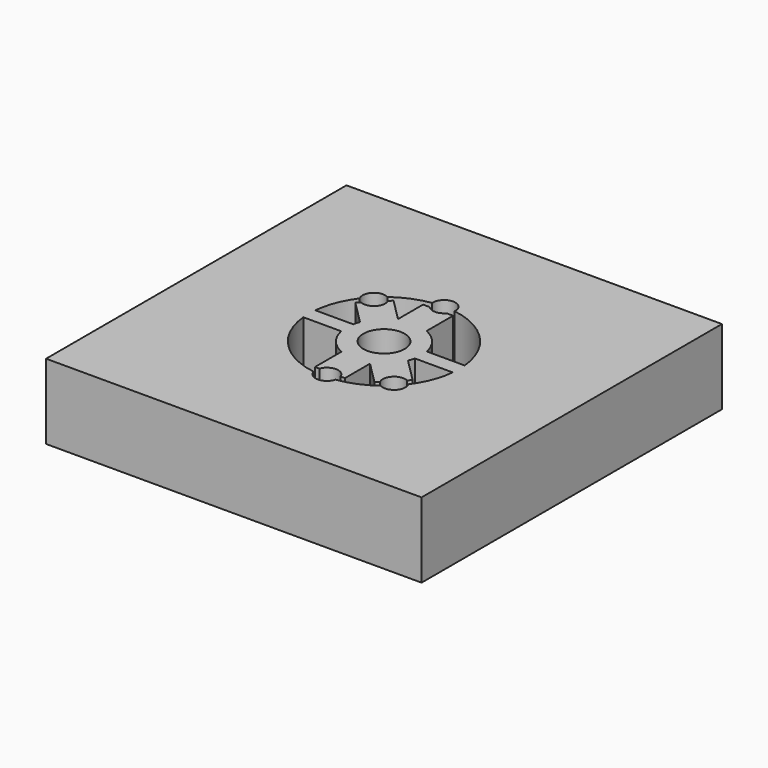
from build123d import *

# Parameters (mm, degrees)
F0_W     = 50
F0_H     = 50
F1_DEPTH = 10
F3_DEPTH = 10
F5_DEPTH = 10
F7_D     = 5.5
F8_D     = 3


with BuildPart() as f1:
    # F0 (on Top) → F1 (new body)
    with BuildSketch(Plane.XY):
        Rectangle(F0_W, F0_H)
    extrude(amount=F1_DEPTH)

    # F2 (on Top) → F3 (cut, through all)
    with BuildSketch(Plane.XY):
        with BuildLine():
            Line((-4.8989794856, -1), (-9.9498743711, -1))
            ThreePointArc((-9.9498743711, -1), (0, -10), (9.9498743711, -1))
            Line((9.9498743711, -1), (4.8989794856, -1))
            ThreePointArc((4.8989794856, -1), (0, -5), (-4.8989794856, -1))
        make_face()
        with BuildLine():
            ThreePointArc((9.9498743711, 1), (0, 10), (-9.9498743711, 1))
            Line((-9.9498743711, 1), (-4.8989794856, 1))
            ThreePointArc((-4.8989794856, 1), (0, 5), (4.8989794856, 1))
            Line((4.8989794856, 1), (9.9498743711, 1))
        make_face()
    extrude(amount=F3_DEPTH, mode=Mode.SUBTRACT)

    # F4 (on Top) → F5 (join)
    with BuildSketch(Plane.XY):
        Polygon((2, 9), (-2, 9), (-2, 4.8284271247), (2, 0.8284271247), align=None)
        Polygon((2, 0.8284271247), (-2, 4.8284271247), (-2, -0.8284271247), (2, -4.8284271247), align=None)
        Polygon((-2, -0.8284271247), (-2, 4.8284271247), (-4.9497474683, 7.7781745931), (-7.7781745931, 4.9497474683), align=None)
        Polygon((7.7781745931, -4.9497474683), (2, 0.8284271247), (2, -4.8284271247), (4.9497474683, -7.7781745931), align=None)
        Polygon((2, -4.8284271247), (-2, -0.8284271247), (-2, -9), (2, -9), align=None)
    extrude(amount=F5_DEPTH)

    # F7 (through all)
    with Locations(Plane(origin=(0, 0, 0), x_dir=(1, 0, 0), z_dir=(0, 0, -1))):
        with Locations((0, 0)):
            Hole(F7_D / 2)

    # F8 (through all)
    with Locations(Plane(origin=(0, 0, 0), x_dir=(1, 0, 0), z_dir=(0, 0, -1))):
        with Locations((-6.7175144213, -6.7175144213), (0, -10), (0, 9.5), (6.7175144213, 6.7175144213)):
            Hole(F8_D / 2)


solid = f1.part
